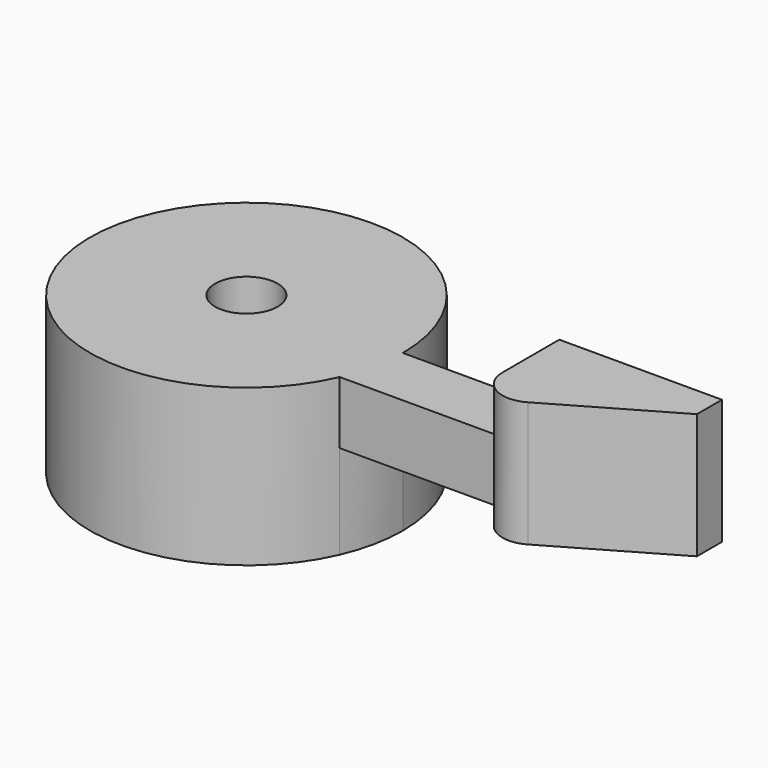
from build123d import *

# Parameters (mm, degrees)
F1_DEPTH = 5
F2_DEPTH = 2
F3_DEPTH = 2
F4_D     = 2
F5_R     = 1


with BuildPart() as f1:
    # F0 (on Top) → F1 (new body)
    with BuildSketch(Plane.XY):
        with BuildLine():
            ThreePointArc((4.582576, -2), (4.894532, -1.021548), (5, 0))
            ThreePointArc((5, 0), (-4.894532, 1.021548), (4.582576, -2))
        make_face()
    extrude(amount=-F1_DEPTH)

    # F0 (on Top) → F2 (join)
    with BuildSketch(Plane.XY):
        with BuildLine():
            Line((10, 0), (5, 0))
            ThreePointArc((5, 0), (4.894532, -1.021548), (4.582576, -2))
            Line((4.582576, -2), (10, -2))
            Line((10, -2), (10, 0))
        make_face()
    extrude(amount=-F2_DEPTH)

    # F0 (on Top) → F3 (join, symmetric)
    with BuildSketch(Plane.XY):
        Polygon((15.196152, 0), (10, 0), (10, -2), (10, -4), (15.196152, -1), align=None)
    extrude(amount=F3_DEPTH, both=True)

    # F4 (through all)
    with Locations(Plane.XY):
        with Locations((0, 0)):
            Hole(F4_D / 2)

    # F5
    f5_edges = [f1.edges().sort_by_distance(p)[0] for p in [
        (10, -4, 0),
    ]]
    fillet(f5_edges, radius=F5_R)


solid = f1.part
